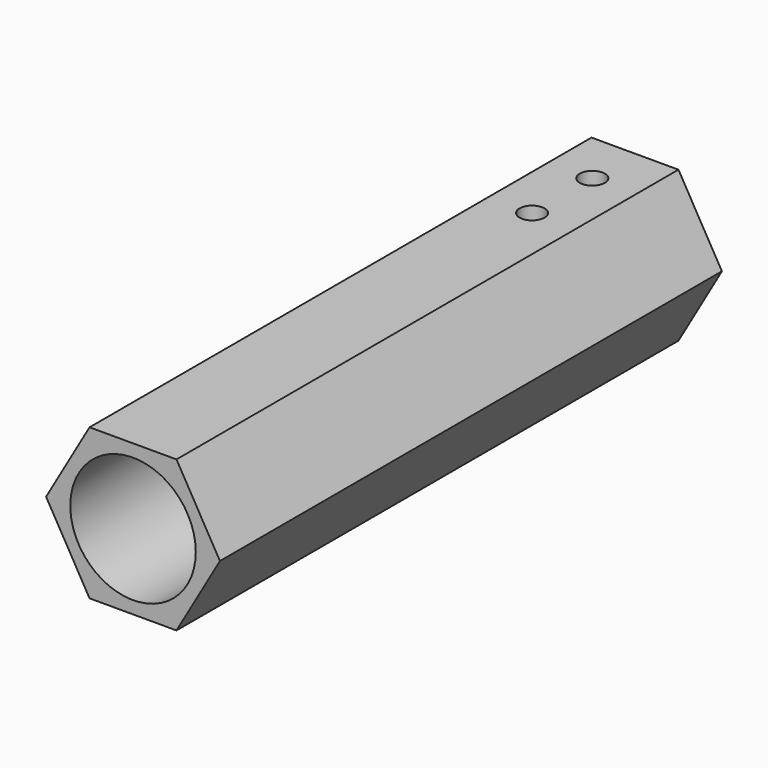
from build123d import *

# Parameters (mm, degrees)
F1_DEPTH = 50
F2_R     = 5
F3_DEPTH = 47
F4_R     = 1
F5_DEPTH = 2


with BuildPart() as f1:
    # F0 (on Front) → F1 (new body)
    with BuildSketch(Plane.XZ):
        Polygon((3.464102, 6), (-3.464102, 6), (-6.928203, 0), (-3.464102, -6), (3.464102, -6), (6.928203, 0), align=None)
    extrude(amount=F1_DEPTH)

    # F2 (on face) → F3 (cut)
    with BuildSketch(Plane.XZ.offset(50)):
        Circle(F2_R)
    extrude(amount=-F3_DEPTH, mode=Mode.SUBTRACT)

    # F4 (on face) → F5 (cut)
    with BuildSketch(Plane.XY.offset(6)):
        with Locations((0, -10.25)):
            Circle(F4_R)
        with Locations((0, -4.25)):
            Circle(F4_R)
    extrude(amount=-F5_DEPTH, mode=Mode.SUBTRACT)


solid = f1.part
